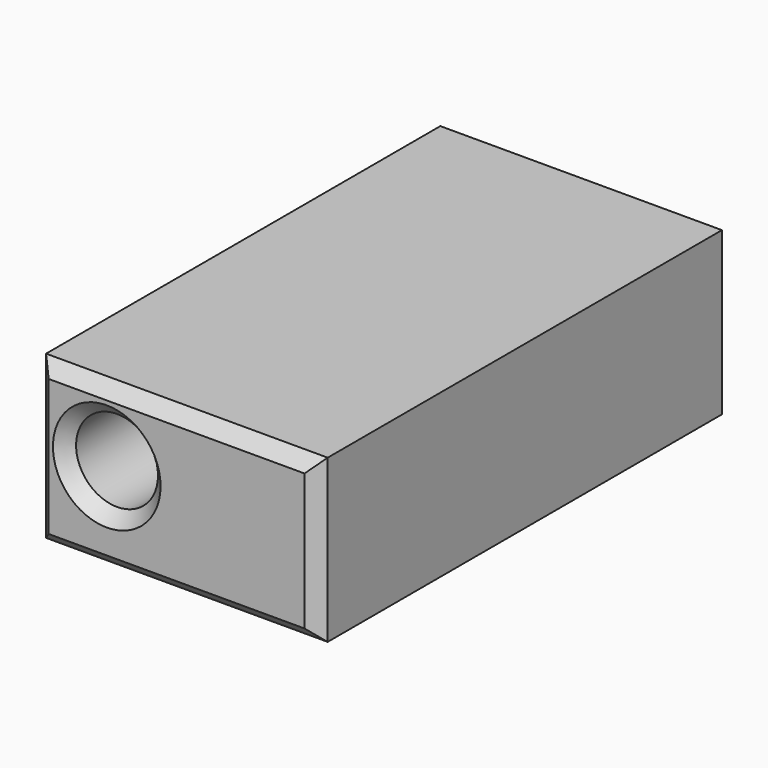
from build123d import *

# Parameters (mm, degrees)
F0_W     = 111.186231
F0_H     = 64.043274
F0_R     = 16.170621
F1_DEPTH = 199.644
F2_SIZE  = 5.08
F3_W     = 101.026231
F3_H     = 53.883274
F3_R     = 21.250621
F4_DEPTH = 127


with BuildPart() as f1:
    # F0 (on Front) → F1 (new body)
    with BuildSketch(Plane.XZ):
        with Locations((-73.523032, -39.80646)):
            Rectangle(F0_W, F0_H)
        with Locations((-101.097219, -35.803754)):
            Circle(F0_R, mode=Mode.SUBTRACT)
    extrude(amount=F1_DEPTH)

    # F2
    f2_edges = [f1.edges().sort_by_distance(p)[0] for p in [
        (-73.523032, -199.644, -7.784823),
        (-129.116148, -199.644, -39.80646),
        (-73.523032, -199.644, -71.828097),
        (-17.929917, -199.644, -39.80646),
        (-117.26784, -199.644, -35.803754),
    ]]
    chamfer(f2_edges, length=F2_SIZE)

    # F3 (on face) → F4 (join)
    with BuildSketch(Plane.XZ.offset(199.644)):
        with BuildLine():
            ThreePointArc((-62.805545, -55.70646), (-63.026238, -55.425729), (-63.238576, -55.138626))
            Line((-63.238576, -55.138626), (-63.238576, -55.70646))
            Line((-63.238576, -55.70646), (-62.805545, -55.70646))
        make_face()
        with BuildLine():
            ThreePointArc((-62.805545, -55.70646), (-53.377099, -60.202052), (-43.948654, -55.70646))
            Line((-43.948654, -55.70646), (-62.805545, -55.70646))
        make_face()
        with Locations((-73.523032, -39.80646)):
            Rectangle(F3_W, F3_H)
        with BuildLine():
            Line((-63.238576, -40.99594), (-63.238576, -25.149755))
            Line((-63.238576, -25.149755), (-40.182158, -25.149755))
            Line((-40.182158, -25.149755), (-40.182158, -55.70646))
            Line((-40.182158, -55.70646), (-43.948654, -55.70646))
            ThreePointArc((-43.948654, -55.70646), (-53.377099, -60.202052), (-62.805545, -55.70646))
            Line((-62.805545, -55.70646), (-63.238576, -55.70646))
            Line((-63.238576, -55.70646), (-63.238576, -55.138626))
            ThreePointArc((-63.238576, -55.138626), (-65.511868, -48.067283), (-63.238576, -40.99594))
        make_face(mode=Mode.SUBTRACT)
        with Locations((-101.097219, -35.803754)):
            Circle(F3_R, mode=Mode.SUBTRACT)
        with BuildLine():
            Line((-40.182158, -25.149755), (-63.238576, -25.149755))
            Line((-63.238576, -25.149755), (-63.238576, -40.99594))
            Line((-63.238576, -40.99594), (-63.238576, -55.138626))
            ThreePointArc((-63.238576, -55.138626), (-63.026238, -55.425729), (-62.805545, -55.70646))
            Line((-62.805545, -55.70646), (-43.948654, -55.70646))
            Line((-43.948654, -55.70646), (-40.182158, -55.70646))
            Line((-40.182158, -55.70646), (-40.182158, -25.149755))
        make_face()
    extrude(amount=-F4_DEPTH)


solid = f1.part
